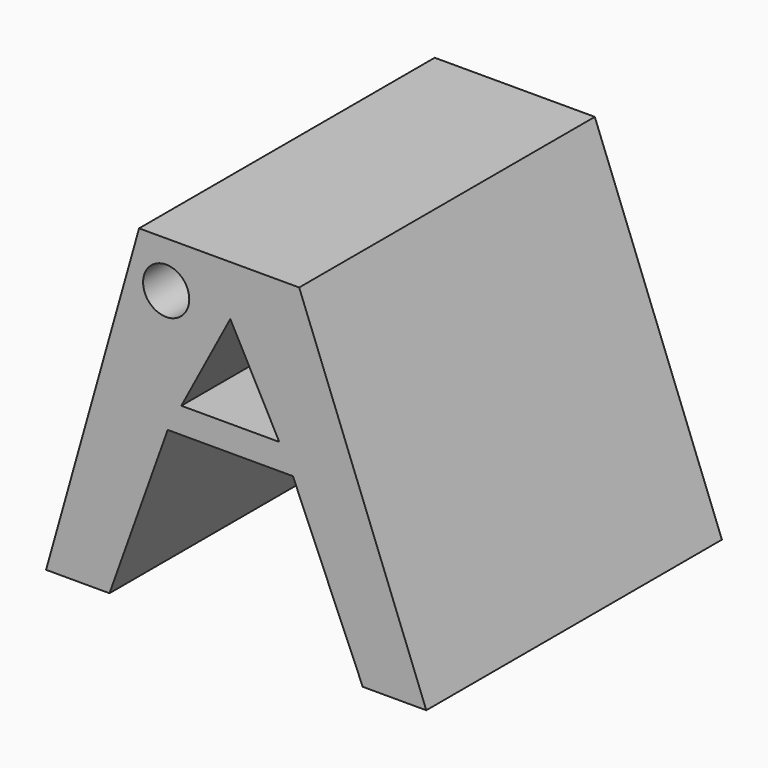
from build123d import *

# Parameters (mm, degrees)
F0_R     = 1.5875
F1_DEPTH = 25.4
F2_DEPTH = 25.4


with BuildPart() as f1:
    # F0 (on Front) → F1 (new body)
    with BuildSketch(Plane.XZ):
        Polygon((-5.091247, 0), (-13.828847, 22.744537), (-24.834575, 22.744537), (-31.227635, 0), (-26.869301, 0), (-22.867481, 11.187853), (-21.931497, 12.95285), (-18.56446, 19.302121), (-15.197423, 12.95285), (-14.261439, 11.187853), (-9.460047, 0), align=None)
        with Locations((-22.973586, 19.571258)):
            Circle(F0_R, mode=Mode.SUBTRACT)
        Polygon((-22.867481, 11.187853), (-14.261439, 11.187853), (-15.197423, 12.95285), (-21.931497, 12.95285), align=None)
    extrude(amount=F1_DEPTH)

    # F0 (on Front) → F2 (cut)
    with BuildSketch(Plane.XZ):
        Polygon((-5.091247, 0), (-13.828847, 22.744537), (-24.834575, 22.744537), (-31.227635, 0), (-26.869301, 0), (-22.867481, 11.187853), (-21.931497, 12.95285), (-18.56446, 19.302121), (-15.197423, 12.95285), (-14.261439, 11.187853), (-9.460047, 0), align=None)
        with Locations((-22.973586, 19.571258)):
            Circle(F0_R, mode=Mode.SUBTRACT)
        Polygon((-22.867481, 11.187853), (-14.261439, 11.187853), (-15.197423, 12.95285), (-21.931497, 12.95285), align=None)
        Polygon((-21.931497, 12.95285), (-15.197423, 12.95285), (-18.56446, 19.302121), align=None)
    extrude(amount=-F2_DEPTH, mode=Mode.SUBTRACT)


solid = f1.part
